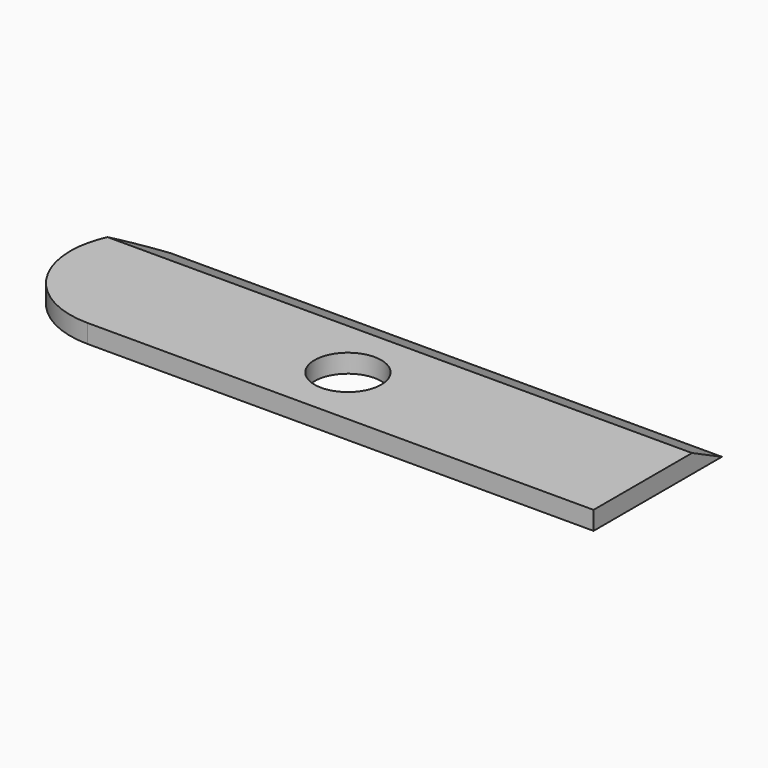
from build123d import *

# Parameters (mm, degrees)
F0_R     = 1.35
F1_DEPTH = 0.75
F3_DEPTH = 24.001


with BuildPart() as f1:
    # F0 (on Top) → F1 (new body)
    with BuildSketch(Plane.XY):
        with BuildLine():
            Line((-20.5, 0), (0, 0))
            Line((0, 0), (0, 5))
            Line((0, 5), (-23.669736, 5))
            ThreePointArc((-23.669736, 5), (-23.914261, 4.28815), (-24, 3.540372))
            Line((-24, 3.540372), (-24, 3.5))
            ThreePointArc((-24, 3.5), (-22.974874, 1.025126), (-20.5, 0))
        make_face()
        with Locations((-11.95, 2.5)):
            Circle(F0_R, mode=Mode.SUBTRACT)
        with BuildLine():
            Line((-23.669736, 5), (0, 5))
            Line((0, 5), (0, 6.5))
            Line((0, 6.5), (-22.317468, 6.5))
            ThreePointArc((-22.317468, 6.5), (-23.104811, 5.850256), (-23.669736, 5))
        make_face()
    extrude(amount=F1_DEPTH)

    # F2 (on face) → F3 (cut, through all)
    with BuildSketch(Plane.YZ):
        Polygon((6.5, 0.75), (4.986099, 0.75), (6.5, 0), align=None)
    extrude(amount=-F3_DEPTH, mode=Mode.SUBTRACT)


solid = f1.part
